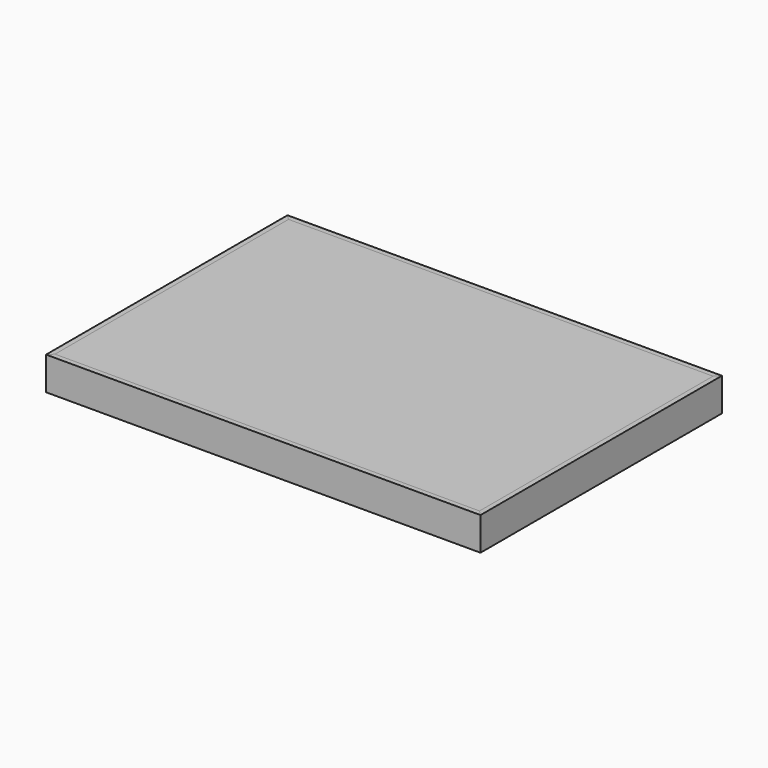
from build123d import *

# Parameters (mm, degrees)
F0_W          = 793.75
F0_H          = 539.75
F1_DEPTH      = 12.7
F2_DEPTH      = 12.7
F2_DEPTH_BACK = 50.8
F3_DEPTH      = 12.7
F3_DEPTH_BACK = 50.8
F4_DEPTH      = 12.7
F4_DEPTH_BACK = 50.8
F5_DEPTH      = 12.7
F5_DEPTH_BACK = 50.8
F7_W          = 692.15
F7_H          = 25.4
F8_DEPTH      = 50.8


with BuildPart() as f1:
    # F0 (on Top) → F1 (new body)
    with BuildSketch(Plane.XY):
        Polygon((-406.4, -279.4), (406.4, -279.4), (396.875, -269.875), (-396.875, -269.875), align=None)
        Rectangle(F0_W, F0_H)
        Polygon((-406.4, 279.4), (-406.4, -279.4), (-396.875, -269.875), (-396.875, 269.875), align=None)
        Polygon((396.875, 269.875), (406.4, 279.4), (-406.4, 279.4), (-396.875, 269.875), align=None)
        Polygon((396.875, -269.875), (406.4, -279.4), (406.4, 279.4), (396.875, 269.875), align=None)
    extrude(amount=F1_DEPTH)


with BuildPart() as f2:
    # F0 (on Top) → F2 (new body, two sides)
    with BuildSketch(Plane.XY) as f2_sk:
        Polygon((-406.4, 279.4), (-406.4, -279.4), (-396.875, -269.875), (-396.875, 269.875), align=None)
        Polygon((-415.925, -288.925), (-406.4, -279.4), (-406.4, 279.4), (-415.925, 288.925), align=None)
    extrude(amount=F2_DEPTH)
    extrude(f2_sk.sketch, amount=-F2_DEPTH_BACK)

    # F6: cut F1
    add(f1.part, mode=Mode.SUBTRACT)


with BuildPart() as f3:
    # F0 (on Top) → F3 (new body, two sides)
    with BuildSketch(Plane.XY) as f3_sk:
        Polygon((-406.4, -279.4), (406.4, -279.4), (396.875, -269.875), (-396.875, -269.875), align=None)
        Polygon((415.925, -288.925), (406.4, -279.4), (-406.4, -279.4), (-415.925, -288.925), align=None)
    extrude(amount=F3_DEPTH)
    extrude(f3_sk.sketch, amount=-F3_DEPTH_BACK)

    # F6: cut F1
    add(f1.part, mode=Mode.SUBTRACT)


with BuildPart() as f4:
    # F0 (on Top) → F4 (new body, two sides)
    with BuildSketch(Plane.XY) as f4_sk:
        Polygon((396.875, -269.875), (406.4, -279.4), (406.4, 279.4), (396.875, 269.875), align=None)
        Polygon((406.4, 279.4), (406.4, -279.4), (415.925, -288.925), (415.925, 288.925), align=None)
    extrude(amount=F4_DEPTH)
    extrude(f4_sk.sketch, amount=-F4_DEPTH_BACK)

    # F6: cut F1
    add(f1.part, mode=Mode.SUBTRACT)


with BuildPart() as f5:
    # F0 (on Top) → F5 (new body, two sides)
    with BuildSketch(Plane.XY) as f5_sk:
        Polygon((396.875, 269.875), (406.4, 279.4), (-406.4, 279.4), (-396.875, 269.875), align=None)
        Polygon((-406.4, 279.4), (406.4, 279.4), (415.925, 288.925), (-415.925, 288.925), align=None)
    extrude(amount=F5_DEPTH)
    extrude(f5_sk.sketch, amount=-F5_DEPTH_BACK)

    # F6: cut F1
    add(f1.part, mode=Mode.SUBTRACT)


with BuildPart() as f8:
    # F7 (on face) → F8 (new body, through all)
    with BuildSketch(Plane(origin=(0, 0, 0), x_dir=(1, 0, 0), z_dir=(0, 0, -1))):
        with Locations((0, 257.175)):
            Rectangle(F7_W, F7_H)
        with Locations((0, -257.175)):
            Rectangle(F7_W, F7_H)
    extrude(amount=F8_DEPTH)


solid = Compound([f1.part, f2.part, f3.part, f4.part, f5.part, f8.part])
